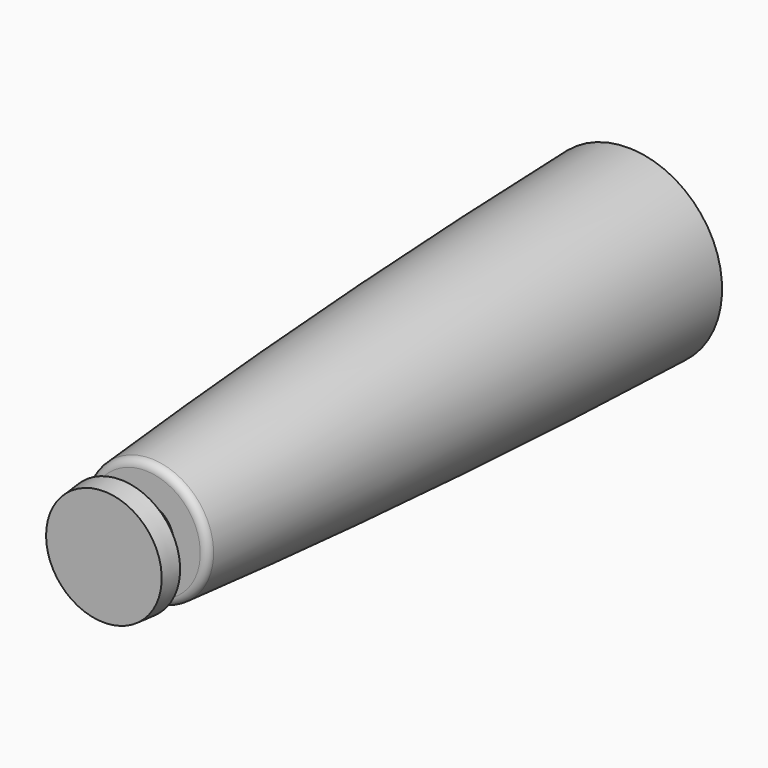
from build123d import *

# Parameters (mm, degrees)
F2_T = -2.5


with BuildPart() as f1:
    # F0 (on Top) → F1 (revolve)
    with BuildSketch(Plane.XY):
        with BuildLine():
            Line((0, -42.5), (0, 0))
            Line((0, 0), (0, 42.5))
            Line((0, 42.5), (-12.2, 42.5))
            add(Edge.make_bspline(
                [(-12.2, 42.5), (-11.5490831466, 15.7465738404), (-10.2143850731, -9.7778465138), (-8.1493342202, -34.8892034403)],
                knots=[0, 0, 0, 0, 77.3075210013, 77.3075210013, 77.3075210013, 77.3075210013], degree=3))
            ThreePointArc((-8.1493342202, -34.8892034403), (-7.8302090155, -35.542757482), (-7.1526985239, -35.8072443729))
            Line((-7.1526985239, -35.8072443729), (-3.7351087677, -35.8072443729))
            Line((-3.7351087677, -35.8072443729), (-3.7351087677, -39.8072443729))
            Line((-3.7351087677, -39.8072443729), (-7.7351087677, -39.8072443729))
            Line((-7.7351087677, -39.8072443729), (-7.5, -42.5))
            Line((-7.5, -42.5), (0, -42.5))
        make_face()
    revolve(axis=Axis((0, 21.25, 0), (0, 1, 0)))

    # F2
    f2_openings = [f1.faces().sort_by_distance(p)[0] for p in [
        (0, 42.5, 0),
    ]]
    offset(amount=F2_T, openings=f2_openings, kind=Kind.INTERSECTION)


solid = f1.part
